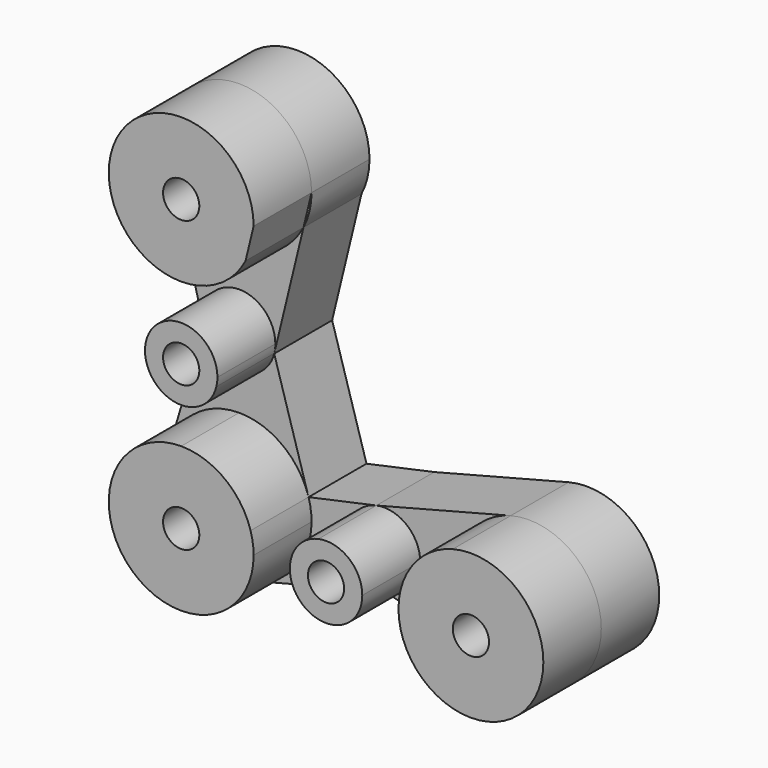
from build123d import *

# Parameters (mm, degrees)
F1_DEPTH = 50.8
F2_DEPTH = 25.4
F3_D     = 12.7
F3_2_D   = 12.7
F3_3_D   = 12.7
F3_4_D   = 12.7
F3_5_D   = 12.7
F3_6_D   = 12.7


with BuildPart() as f1:
    # F0 (on Front) → F1 (new body)
    with BuildSketch(Plane.XZ):
        with BuildLine():
            ThreePointArc((-50.7939492653, 26.1209367481), (-79.3993552685, 51.3079916788), (-100.7873915934, 19.7610601187))
            ThreePointArc((-100.7873915934, 19.7610601187), (-91.7482072117, 6.0305969766), (-76.193947345, 0.7110601187))
            ThreePointArc((-76.193947345, 0.7110601187), (-62.9802916851, 4.4186811781), (-53.6242130328, 14.45914641))
            Line((-53.6242130328, 14.45914641), (-50.7939492653, 26.1209367481))
        make_face()
    extrude(amount=F1_DEPTH)

    # F3 (through all)
    with Locations(Plane(origin=(0, 0, 0), x_dir=(1, 0, 0), z_dir=(0, 1, 0))):
        with Locations((-76.193947345, -26.1110601187), (-76.193947345, 24.6889398813), (-76.193947345, 75.4889398813), (-25.393947345, 75.4889398813), (25.406052655, 75.4889398813)):
            Hole(F3_D / 2)


with BuildPart() as f1b:
    # F0 (on Front) → F1, piece 2 (new body)
    with BuildSketch(Plane.XZ):
        with BuildLine():
            ThreePointArc((-88.4906694692, -27.8639398813), (-83.9710772784, -34.7291714524), (-76.193947345, -37.3889398813))
            Line((-76.193947345, -37.3889398813), (-76.193947345, -24.6889398813))
            Line((-76.193947345, -24.6889398813), (-76.193947345, -11.9889398813))
            ThreePointArc((-76.193947345, -11.9889398813), (-86.2341789161, -16.911809948), (-88.4906694692, -27.8639398813))
        make_face()
        with BuildLine():
            Line((-76.193947345, -24.6889398813), (-76.193947345, -37.3889398813))
            ThreePointArc((-76.193947345, -37.3889398813), (-68.3437906638, -34.6721778371), (-63.8522178745, -27.6842217838))
            ThreePointArc((-63.8522178745, -27.6842217838), (-63.5838330657, -26.1972561154), (-63.493947345, -24.6889398813))
            ThreePointArc((-63.493947345, -24.6889398813), (-67.2136912239, -15.7086837603), (-76.193947345, -11.9889398813))
            Line((-76.193947345, -11.9889398813), (-76.193947345, -24.6889398813))
        make_face()
    extrude(amount=F1_DEPTH)

    # F3#2 (through all)
    with Locations(Plane(origin=(0, 0, 0), x_dir=(1, 0, 0), z_dir=(0, 1, 0))):
        with Locations((-76.193947345, -26.1110601187), (-76.193947345, 24.6889398813), (-76.193947345, 75.4889398813), (-25.393947345, 75.4889398813), (25.406052655, 75.4889398813)):
            Hole(F3_2_D / 2)


with BuildPart() as f1c:
    # F0 (on Front) → F1, piece 3 (new body)
    with BuildSketch(Plane.XZ):
        with BuildLine():
            Line((-50.793947345, -75.4889398813), (-76.193947345, -75.4889398813))
            Line((-76.193947345, -75.4889398813), (-76.193947345, -50.0889398813))
            ThreePointArc((-76.193947345, -50.0889398813), (-91.3712413096, -55.122061183), (-100.5336406636, -68.2267550063))
            ThreePointArc((-100.5336406636, -68.2267550063), (-94.4860916462, -93.1115803436), (-69.843947345, -100.0823841297))
            ThreePointArc((-69.843947345, -100.0823841297), (-56.1134842029, -91.043199748), (-50.793947345, -75.4889398813))
        make_face()
        with BuildLine():
            Line((-76.193947345, -50.0889398813), (-76.193947345, -75.4889398813))
            Line((-76.193947345, -75.4889398813), (-50.793947345, -75.4889398813))
            ThreePointArc((-50.793947345, -75.4889398813), (-51.0604218231, -71.8193493264), (-51.8542540254, -68.2267550099))
            ThreePointArc((-51.8542540254, -68.2267550099), (-61.0166533789, -55.1220611841), (-76.193947345, -50.0889398813))
        make_face()
    extrude(amount=F1_DEPTH)

    # F3#3 (through all)
    with Locations(Plane(origin=(0, 0, 0), x_dir=(1, 0, 0), z_dir=(0, 1, 0))):
        with Locations((-76.193947345, -26.1110601187), (-76.193947345, 24.6889398813), (-76.193947345, 75.4889398813), (-25.393947345, 75.4889398813), (25.406052655, 75.4889398813)):
            Hole(F3_3_D / 2)


with BuildPart() as f1d:
    # F0 (on Front) → F1, piece 4 (new body)
    with BuildSketch(Plane.XZ):
        with BuildLine():
            ThreePointArc((-28.0829291685, -63.0768741083), (-35.279291779, -67.5158623437), (-38.093947345, -75.4889398813))
            Line((-38.093947345, -75.4889398813), (-25.393947345, -75.4889398813))
            Line((-25.393947345, -75.4889398813), (-12.693947345, -75.4889398813))
            ThreePointArc((-12.693947345, -75.4889398813), (-17.4208698074, -65.6035954473), (-28.0829291685, -63.0768741083))
        make_face()
        with BuildLine():
            Line((-25.393947345, -75.4889398813), (-38.093947345, -75.4889398813))
            ThreePointArc((-38.093947345, -75.4889398813), (-25.393947345, -88.1889398813), (-12.693947345, -75.4889398813))
            Line((-12.693947345, -75.4889398813), (-25.393947345, -75.4889398813))
        make_face()
    extrude(amount=F1_DEPTH)

    # F3#4 (through all)
    with Locations(Plane(origin=(0, 0, 0), x_dir=(1, 0, 0), z_dir=(0, 1, 0))):
        with Locations((-76.193947345, -26.1110601187), (-76.193947345, 24.6889398813), (-76.193947345, 75.4889398813), (-25.393947345, 75.4889398813), (25.406052655, 75.4889398813)):
            Hole(F3_4_D / 2)


with BuildPart() as f1e:
    # F0 (on Front) → F1, piece 5 (new body)
    with BuildSketch(Plane.XZ):
        with BuildLine():
            ThreePointArc((50.806052655, -75.4889398813), (40.958286546, -55.4069075888), (19.0510903716, -50.896777423))
            ThreePointArc((19.0510903716, -50.896777423), (5.3240203624, -59.9367059903), (0.006052655, -75.4889398813))
            ThreePointArc((0.006052655, -75.4889398813), (5.3255895129, -91.043199748), (19.056052655, -100.0823841297))
            ThreePointArc((19.056052655, -100.0823841297), (40.9603125217, -95.5694030234), (50.806052655, -75.4889398813))
        make_face()
    extrude(amount=F1_DEPTH)

    # F3#5 (through all)
    with Locations(Plane(origin=(0, 0, 0), x_dir=(1, 0, 0), z_dir=(0, 1, 0))):
        with Locations((-76.193947345, -26.1110601187), (-76.193947345, 24.6889398813), (-76.193947345, 75.4889398813), (-25.393947345, 75.4889398813), (25.406052655, 75.4889398813)):
            Hole(F3_5_D / 2)


with BuildPart() as f2:
    # F0 (on Front) → F2 (new body)
    with BuildSketch(Plane.XZ):
        with BuildLine():
            Line((-76.193947345, -50.0889398813), (-76.193947345, -75.4889398813))
            Line((-76.193947345, -75.4889398813), (-50.793947345, -75.4889398813))
            ThreePointArc((-50.793947345, -75.4889398813), (-51.0604218231, -71.8193493264), (-51.8542540254, -68.2267550099))
            ThreePointArc((-51.8542540254, -68.2267550099), (-61.0166533789, -55.1220611841), (-76.193947345, -50.0889398813))
        make_face()
        with BuildLine():
            Line((-50.793947345, -75.4889398813), (-76.193947345, -75.4889398813))
            Line((-76.193947345, -75.4889398813), (-76.193947345, -50.0889398813))
            ThreePointArc((-76.193947345, -50.0889398813), (-91.3712413096, -55.122061183), (-100.5336406636, -68.2267550063))
            ThreePointArc((-100.5336406636, -68.2267550063), (-94.4860916462, -93.1115803436), (-69.843947345, -100.0823841297))
            ThreePointArc((-69.843947345, -100.0823841297), (-56.1134842029, -91.043199748), (-50.793947345, -75.4889398813))
        make_face()
        with BuildLine():
            ThreePointArc((-51.8542540254, -68.2267550099), (-51.0604218231, -71.8193493264), (-50.793947345, -75.4889398813))
            Line((-50.793947345, -75.4889398813), (-38.093947345, -75.4889398813))
            ThreePointArc((-38.093947345, -75.4889398813), (-35.279291779, -67.5158623437), (-28.0829291685, -63.0768741083))
            Line((-28.0829291685, -63.0768741083), (-51.8542540132, -68.2267550063))
        make_face()
        with BuildLine():
            Line((-38.093947345, -75.4889398813), (-50.793947345, -75.4889398813))
            ThreePointArc((-50.793947345, -75.4889398813), (-56.1134842029, -91.043199748), (-69.843947345, -100.0823841297))
            Line((-69.843947345, -100.0823841297), (-25.393947345, -88.6054434805))
            Line((-25.393947345, -88.6054434805), (19.056052655, -100.0823841297))
            ThreePointArc((19.056052655, -100.0823841297), (5.3255895129, -91.043199748), (0.006052655, -75.4889398813))
            Line((0.006052655, -75.4889398813), (-12.693947345, -75.4889398813))
            ThreePointArc((-12.693947345, -75.4889398813), (-25.393947345, -88.1889398813), (-38.093947345, -75.4889398813))
        make_face()
        with BuildLine():
            ThreePointArc((-100.5336406636, -68.2267550063), (-91.3712413096, -55.122061183), (-76.193947345, -50.0889398813))
            Line((-76.193947345, -50.0889398813), (-76.193947345, -37.3889398813))
            ThreePointArc((-76.193947345, -37.3889398813), (-83.9710772784, -34.7291714524), (-88.4906694692, -27.8639398813))
            Line((-88.4906694692, -27.8639398813), (-100.5336406636, -68.2267550063))
        make_face()
        with BuildLine():
            Line((-76.193947345, -37.3889398813), (-76.193947345, -50.0889398813))
            ThreePointArc((-76.193947345, -50.0889398813), (-61.0166533789, -55.1220611841), (-51.8542540254, -68.2267550099))
            Line((-51.8542540132, -68.2267550063), (-63.8958346438, -27.8639398813))
            Line((-63.8958346438, -27.8639398813), (-63.8522178745, -27.6842217838))
            ThreePointArc((-63.8522178745, -27.6842217838), (-68.3437906638, -34.6721778371), (-76.193947345, -37.3889398813))
        make_face()
        with BuildLine():
            ThreePointArc((-28.0829291685, -63.0768741083), (-35.279291779, -67.5158623437), (-38.093947345, -75.4889398813))
            Line((-38.093947345, -75.4889398813), (-25.393947345, -75.4889398813))
            Line((-25.393947345, -75.4889398813), (-12.693947345, -75.4889398813))
            ThreePointArc((-12.693947345, -75.4889398813), (-17.4208698074, -65.6035954473), (-28.0829291685, -63.0768741083))
        make_face()
        with BuildLine():
            ThreePointArc((-88.4906694692, -27.8639398813), (-83.9710772784, -34.7291714524), (-76.193947345, -37.3889398813))
            Line((-76.193947345, -37.3889398813), (-76.193947345, -24.6889398813))
            Line((-76.193947345, -24.6889398813), (-76.193947345, -11.9889398813))
            ThreePointArc((-76.193947345, -11.9889398813), (-86.2341789161, -16.911809948), (-88.4906694692, -27.8639398813))
        make_face()
        with BuildLine():
            Line((-76.193947345, -24.6889398813), (-76.193947345, -37.3889398813))
            ThreePointArc((-76.193947345, -37.3889398813), (-68.3437906638, -34.6721778371), (-63.8522178745, -27.6842217838))
            ThreePointArc((-63.8522178745, -27.6842217838), (-63.5838330657, -26.1972561154), (-63.493947345, -24.6889398813))
            ThreePointArc((-63.493947345, -24.6889398813), (-67.2136912239, -15.7086837603), (-76.193947345, -11.9889398813))
            Line((-76.193947345, -11.9889398813), (-76.193947345, -24.6889398813))
        make_face()
        with BuildLine():
            Line((19.0510903716, -50.896777423), (-28.0829291685, -63.0768741083))
            ThreePointArc((-28.0829291685, -63.0768741083), (-17.4208698074, -65.6035954473), (-12.693947345, -75.4889398813))
            Line((-12.693947345, -75.4889398813), (0.006052655, -75.4889398813))
            ThreePointArc((0.006052655, -75.4889398813), (5.3240203624, -59.9367059903), (19.0510903716, -50.896777423))
        make_face()
        with BuildLine():
            Line((-100.7873915934, 19.7610601187), (-88.4906694692, -27.8639398813))
            ThreePointArc((-88.4906694692, -27.8639398813), (-86.2341789161, -16.911809948), (-76.193947345, -11.9889398813))
            Line((-76.193947345, -11.9889398813), (-76.193947345, 0.7110601187))
            ThreePointArc((-76.193947345, 0.7110601187), (-91.7482072117, 6.0305969766), (-100.7873915934, 19.7610601187))
        make_face()
        with BuildLine():
            ThreePointArc((-63.493947345, -24.6889398813), (-63.5838330657, -26.1972561154), (-63.8522178745, -27.6842217838))
            Line((-63.8522178745, -27.6842217838), (-53.6242130328, 14.45914641))
            ThreePointArc((-53.6242130328, 14.45914641), (-62.9802916851, 4.4186811781), (-76.193947345, 0.7110601187))
            Line((-76.193947345, 0.7110601187), (-76.193947345, -11.9889398813))
            ThreePointArc((-76.193947345, -11.9889398813), (-67.2136912239, -15.7086837603), (-63.493947345, -24.6889398813))
        make_face()
        with BuildLine():
            ThreePointArc((50.806052655, -75.4889398813), (40.958286546, -55.4069075888), (19.0510903716, -50.896777423))
            ThreePointArc((19.0510903716, -50.896777423), (5.3240203624, -59.9367059903), (0.006052655, -75.4889398813))
            ThreePointArc((0.006052655, -75.4889398813), (5.3255895129, -91.043199748), (19.056052655, -100.0823841297))
            ThreePointArc((19.056052655, -100.0823841297), (40.9603125217, -95.5694030234), (50.806052655, -75.4889398813))
        make_face()
        with BuildLine():
            ThreePointArc((-50.7939492653, 26.1209367481), (-79.3993552685, 51.3079916788), (-100.7873915934, 19.7610601187))
            ThreePointArc((-100.7873915934, 19.7610601187), (-91.7482072117, 6.0305969766), (-76.193947345, 0.7110601187))
            ThreePointArc((-76.193947345, 0.7110601187), (-62.9802916851, 4.4186811781), (-53.6242130328, 14.45914641))
            Line((-53.6242130328, 14.45914641), (-50.7939492653, 26.1209367481))
        make_face()
        with BuildLine():
            Line((-50.7939492653, 26.1209367481), (-53.6242130328, 14.45914641))
            ThreePointArc((-53.6242130328, 14.45914641), (-51.5116535747, 20.1156973911), (-50.793947345, 26.1110601187))
            ThreePointArc((-50.793947345, 26.1110601187), (-50.7939478251, 26.1159984335), (-50.7939492653, 26.1209367481))
        make_face()
    extrude(amount=F2_DEPTH)

    # F3#6 (through all)
    with Locations(Plane(origin=(0, 0, 0), x_dir=(1, 0, 0), z_dir=(0, 1, 0))):
        with Locations((-76.193947345, -26.1110601187), (-76.193947345, 24.6889398813), (-76.193947345, 75.4889398813), (-25.393947345, 75.4889398813), (25.406052655, 75.4889398813)):
            Hole(F3_6_D / 2)


solid = Compound([f1.part, f1b.part, f1c.part, f1d.part, f1e.part, f2.part])
